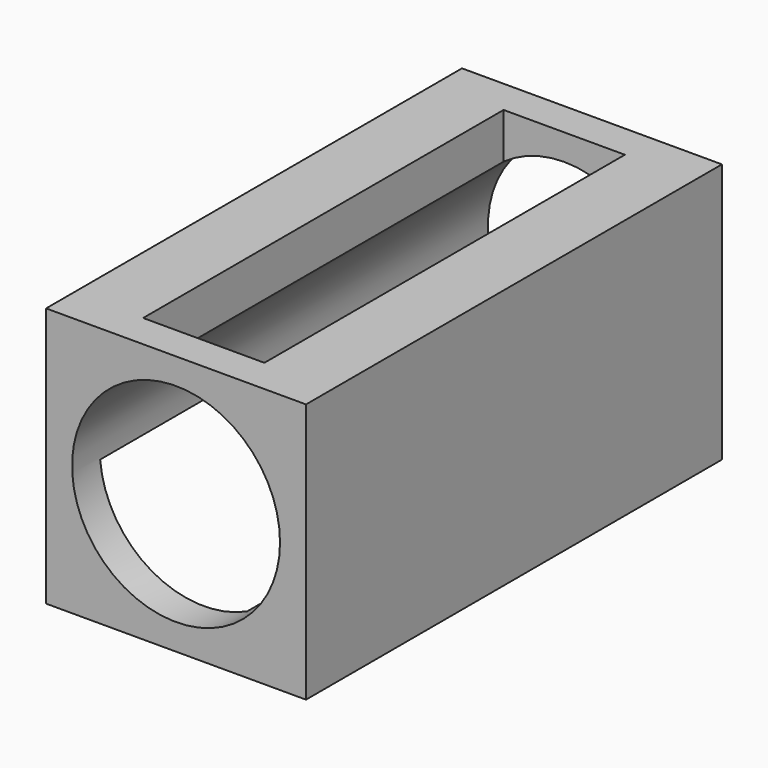
from build123d import *

# Parameters (mm, degrees)
BOX_W          = 75
BOX_H          = 150
BOX_DEPTH      = 75
CYLINDER_R     = 30
CYLINDER_DEPTH = 150
BOX001_W       = 35
BOX001_H       = 130
BOX001_DEPTH   = 35
BOX002_W       = 50
BOX002_H       = 130
BOX002_DEPTH   = 35


with BuildPart() as part:
    # Box → Box (join)
    with BuildSketch(Plane.XY):
        with Locations((37.5, 75)):
            Rectangle(BOX_W, BOX_H)
    extrude(amount=BOX_DEPTH)

    # Cylinder → Cylinder (cut)
    with BuildSketch(Plane(origin=(37.5, 150, 37.5), x_dir=(1, 0, 0), z_dir=(0, -1, 0))):
        Circle(CYLINDER_R)
    extrude(amount=CYLINDER_DEPTH, mode=Mode.SUBTRACT)

    # Box001 → Box001 (cut)
    with BuildSketch(Plane(origin=(20, 10, 40), x_dir=(1, 0, 0), z_dir=(0, 0, 1))):
        with Locations((17.5, 65)):
            Rectangle(BOX001_W, BOX001_H)
    extrude(amount=BOX001_DEPTH, mode=Mode.SUBTRACT)

    # Box002 → Box002 (cut)
    with BuildSketch(Plane(origin=(0, 10, 0), x_dir=(1, 0, 0), z_dir=(0, 0, 1))):
        with Locations((25, 65)):
            Rectangle(BOX002_W, BOX002_H)
    extrude(amount=BOX002_DEPTH, mode=Mode.SUBTRACT)


solid = part.part
